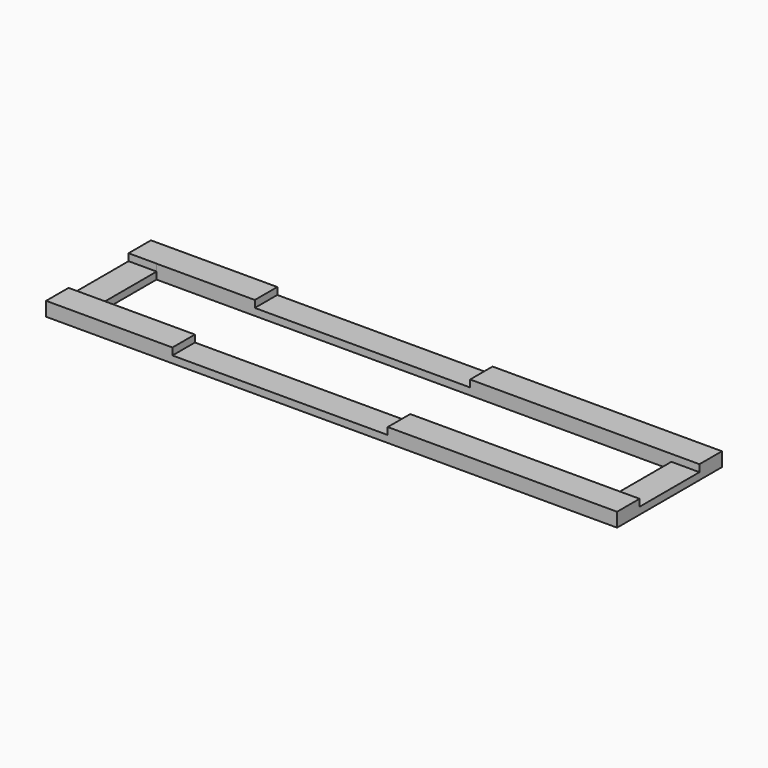
from build123d import *

# Parameters (mm, degrees)
F0_W     = 3
F0_H     = 8
F0_W_2   = 23
F0_H_2   = 3
F1_DEPTH = 0.75
F2_DEPTH = 1.5


with BuildPart() as f1:
    # F0 (on Top) → F1 (new body)
    with BuildSketch(Plane.XY):
        with Locations((29, 0)):
            Rectangle(F0_W, F0_H)
        with Locations((-5.5, 5.5)):
            Rectangle(F0_W_2, F0_H_2)
        Polygon((-30.5, 4.013143), (-30.5, -4), (-27.5, -4), (-27.5, 4), (-27.5, 4.013143), align=None)
        with Locations((-5.5, -5.5)):
            Rectangle(F0_W_2, F0_H_2)
        Polygon((-30.5, 7), (-30.5, 4.013143), (-27.5, 4.013143), (-27.5, 4), (-17, 4), (-17, 7), align=None)
        Polygon((-30.5, 4.013143), (-30.5, -4), (-27.5, -4), (-27.5, 4), (-27.5, 4.013143), align=None)
        with Locations((29, 0)):
            Rectangle(F0_W, F0_H)
    extrude(amount=F1_DEPTH)

    # F0 (on Top) → F2 (join)
    with BuildSketch(Plane.XY):
        Polygon((-30.5, 7), (-30.5, 4.013143), (-27.5, 4.013143), (-27.5, 4), (-17, 4), (-17, 7), align=None)
        Polygon((-30.5, -7), (-17, -7), (-17, -4), (-27.5, -4), (-30.5, -4), align=None)
        Polygon((6, -7), (30.5, -7), (30.5, -4), (27.5, -4), (6, -4), align=None)
        Polygon((27.5, 4), (30.5, 4), (30.5, 7), (6, 7), (6, 4), align=None)
    extrude(amount=F2_DEPTH)


solid = f1.part
